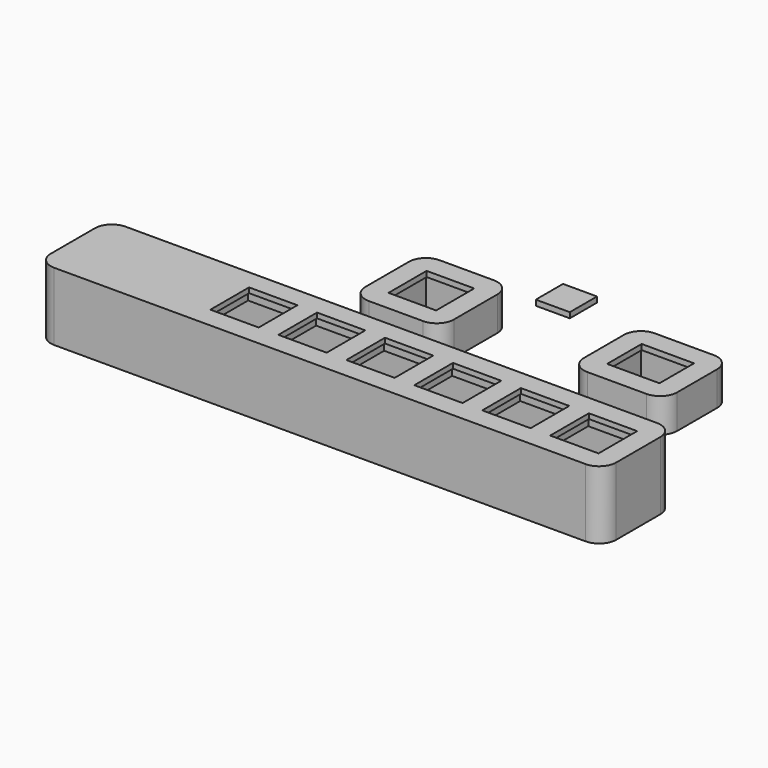
from build123d import *

# Parameters (mm, degrees)
F0_W      = 26
F0_H      = 26
F0_W_2    = 14
F0_H_2    = 14
F0_W_3    = 27.4
F0_H_3    = 24.7
F0_W_4    = 15.4
F0_H_4    = 12.7
F1_DEPTH  = 10
F2_W      = 16
F2_H      = 16
F2_W_2    = 17.4
F2_H_2    = 14.7
F3_DEPTH  = 8.4
F4_W      = 4
F4_H      = 4
F5_DEPTH  = 5
F6_W      = 166.199906
F6_H      = 26.2
F6_W_2    = 14.2
F6_H_2    = 14.2
F7_DEPTH  = 20
F8_W      = 16
F8_H      = 16
F9_DEPTH  = 18.5
F10_W     = 158.099906
F10_H     = 18
F11_DEPTH = 16
F12_W     = 28.1763
F12_H     = 8.38993
F13_DEPTH = 3
F14_W     = 10
F14_H     = 5
F15_DEPTH = 3
F16_R     = 5
F16_2_R   = 5
F17_R     = 1
F17_2_R   = 1
F18_W     = 10
F18_H     = 10
F19_DEPTH = 1.6


with BuildPart() as f1:
    # F0 (on Top) → F1 (new body)
    with BuildSketch(Plane.XY):
        Rectangle(F0_W, F0_H)
        Rectangle(F0_W_2, F0_H_2, mode=Mode.SUBTRACT)
        with Locations((61.943563, 3.11776)):
            Rectangle(F0_W_3, F0_H_3)
        with Locations((61.943563, 3.11776)):
            Rectangle(F0_W_4, F0_H_4, mode=Mode.SUBTRACT)
    extrude(amount=F1_DEPTH)

    # F2 (on face) → F3 (cut)
    with BuildSketch(Plane(origin=(0, 0, 0), x_dir=(1, 0, 0), z_dir=(0, 0, -1))):
        Rectangle(F2_W, F2_H)
        with Locations((61.943563, -3.11776)):
            Rectangle(F2_W_2, F2_H_2)
    extrude(amount=-F3_DEPTH, mode=Mode.SUBTRACT)

    # F4 (on face) → F5 (cut, through all)
    with BuildSketch(Plane.XZ.offset(13)):
        Rectangle(F4_W, F4_H)
    extrude(amount=-F5_DEPTH, mode=Mode.SUBTRACT)

    # F16
    f16_edges = [f1.edges().sort_by_distance(p)[0] for p in [
        (-13, -13, 5),
        (-13, 13, 5),
        (13, -13, 5),
        (13, 13, 5),
        (75.643563, 15.46776, 5),
        (75.643563, -9.23224, 5),
        (48.243563, -9.23224, 5),
        (48.243563, 15.46776, 5),
    ]]
    fillet(f16_edges, radius=F16_R)

    # F17
    f17_edges = [f1.edges().sort_by_distance(p)[0] for p in [
        (-2, -10.5, 2),
        (2, -10.5, 2),
    ]]
    fillet(f17_edges, radius=F17_R)


with BuildPart() as f7:
    # F6 (on Top) → F7 (new body)
    with BuildSketch(Plane.XY):
        with Locations((15.404408, -47.104196)):
            Rectangle(F6_W, F6_H)
        with Locations((-14.595545, -46.966988)):
            Rectangle(F6_W_2, F6_H_2, mode=Mode.SUBTRACT)
        with Locations((5.404436, -46.99443)):
            Rectangle(F6_W_2, F6_H_2, mode=Mode.SUBTRACT)
        with Locations((25.404418, -47.021871)):
            Rectangle(F6_W_2, F6_H_2, mode=Mode.SUBTRACT)
        with Locations((45.404399, -47.049313)):
            Rectangle(F6_W_2, F6_H_2, mode=Mode.SUBTRACT)
        with Locations((65.40438, -47.076754)):
            Rectangle(F6_W_2, F6_H_2, mode=Mode.SUBTRACT)
        with Locations((85.404361, -47.104196)):
            Rectangle(F6_W_2, F6_H_2, mode=Mode.SUBTRACT)
    extrude(amount=F7_DEPTH)

    # F8 (on face) → F9 (cut)
    with BuildSketch(Plane(origin=(0, 0, 0), x_dir=(1, 0, 0), z_dir=(0, 0, -1))):
        with Locations((85.404361, 47.104196)):
            Rectangle(F8_W, F8_H)
        with Locations((65.404361, 47.104196)):
            Rectangle(F8_W, F8_H)
        with Locations((45.404361, 47.104196)):
            Rectangle(F8_W, F8_H)
        with Locations((25.404361, 47.104196)):
            Rectangle(F8_W, F8_H)
        with Locations((5.404361, 47.104196)):
            Rectangle(F8_W, F8_H)
        with Locations((-14.595639, 47.104196)):
            Rectangle(F8_W, F8_H)
    extrude(amount=-F9_DEPTH, mode=Mode.SUBTRACT)

    # F10 (on face) → F11 (cut)
    with BuildSketch(Plane(origin=(0, 0, 0), x_dir=(1, 0, 0), z_dir=(0, 0, -1))):
        with Locations((14.354408, 47.104196)):
            Rectangle(F10_W, F10_H)
    extrude(amount=-F11_DEPTH, mode=Mode.SUBTRACT)

    # F12 (on face) → F13 (join)
    with BuildSketch(Plane(origin=(0, 0, 16), x_dir=(1, 0, 0), z_dir=(0, 0, -1))):
        with Locations((-45.393016, 47.104196)):
            Rectangle(F12_W, F12_H)
    extrude(amount=F13_DEPTH)

    # F14 (on face) → F15 (cut, through all)
    with BuildSketch(Plane(origin=(-67.695545, 0, 0), x_dir=(0, -1, 0), z_dir=(-1, 0, 0))):
        with Locations((47.104196, 10.5)):
            Rectangle(F14_W, F14_H)
    extrude(amount=-F15_DEPTH, mode=Mode.SUBTRACT)

    # F16#2
    f16_2_edges = [f7.edges().sort_by_distance(p)[0] for p in [
        (-67.695545, -34.004196, 10),
        (-67.695545, -60.204196, 10),
        (98.504361, -60.204196, 10),
        (98.504361, -34.004196, 10),
    ]]
    fillet(f16_2_edges, radius=F16_2_R)

    # F17#2
    f17_2_edges = [f7.edges().sort_by_distance(p)[0] for p in [
        (-66.195545, -42.104196, 13),
        (-66.195545, -52.104196, 13),
        (-66.195545, -42.104196, 8),
        (-66.195545, -52.104196, 8),
    ]]
    fillet(f17_2_edges, radius=F17_2_R)


with BuildPart() as f19:
    # F18 (on Top) → F19 (new body)
    with BuildSketch(Plane.XY):
        with Locations((16.418241, 29.098614)):
            Rectangle(F18_W, F18_H)
    extrude(amount=F19_DEPTH)


solid = Compound([f1.part, f7.part, f19.part])
